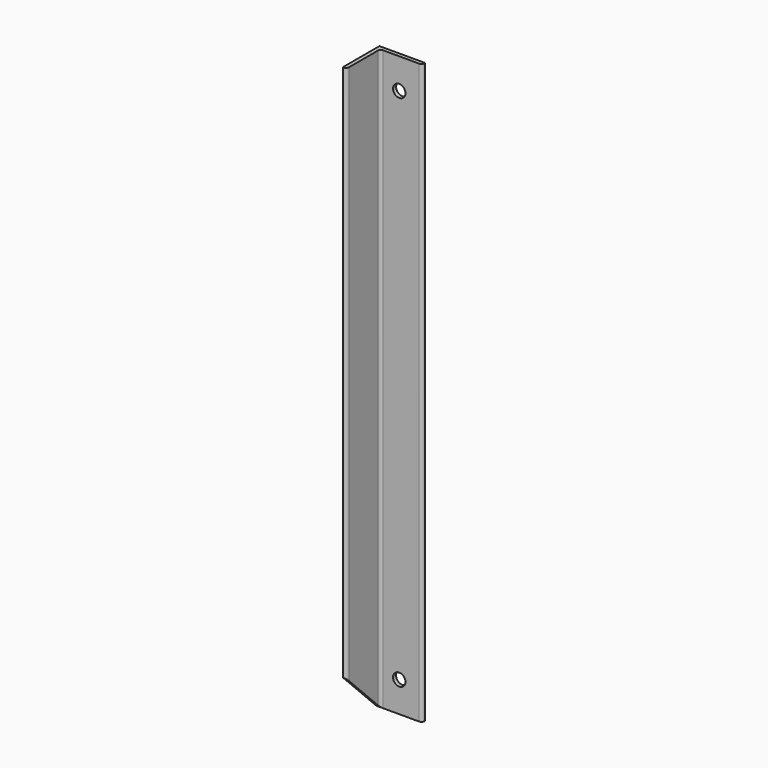
from build123d import *

# Parameters (mm, degrees)
F1_DEPTH = 482.6
F5_DEPTH = 6.35
F6_R     = 10.3124
F7_DEPTH = 76.2
F8_R     = 5.08


with BuildPart() as f1:
    # F0 (on Top) → F1 (new body, symmetric)
    with BuildSketch(Plane.XY):
        Polygon((0, 76.2), (0, 0), (6.35, 0), (6.35, 69.85), (76.2, 69.85), (76.2, 76.2), align=None)
    extrude(amount=F1_DEPTH, both=True)

    # F4 (on face) → F5 (cut)
    with BuildSketch(Plane(origin=(0, 0, 0), x_dir=(0, -1, 0), z_dir=(-1, 0, 0))):
        Polygon((0, -412.75), (-69.85, -482.6), (0, -482.6), align=None)
    extrude(amount=-F5_DEPTH, mode=Mode.SUBTRACT)

    # F6 (on Front) → F7 (cut)
    with BuildSketch(Plane.XZ):
        with Locations((38.1, 431.8)):
            Circle(F6_R)
        with Locations((38.1, -431.8)):
            Circle(F6_R)
    extrude(amount=-F7_DEPTH, mode=Mode.SUBTRACT)

    # F8
    f8_edges = [f1.edges().sort_by_distance(p)[0] for p in [
        (6.35, 69.85, 0),
        (76.2, 69.85, 0),
        (6.35, 0, 34.925),
    ]]
    fillet(f8_edges, radius=F8_R)


solid = f1.part
